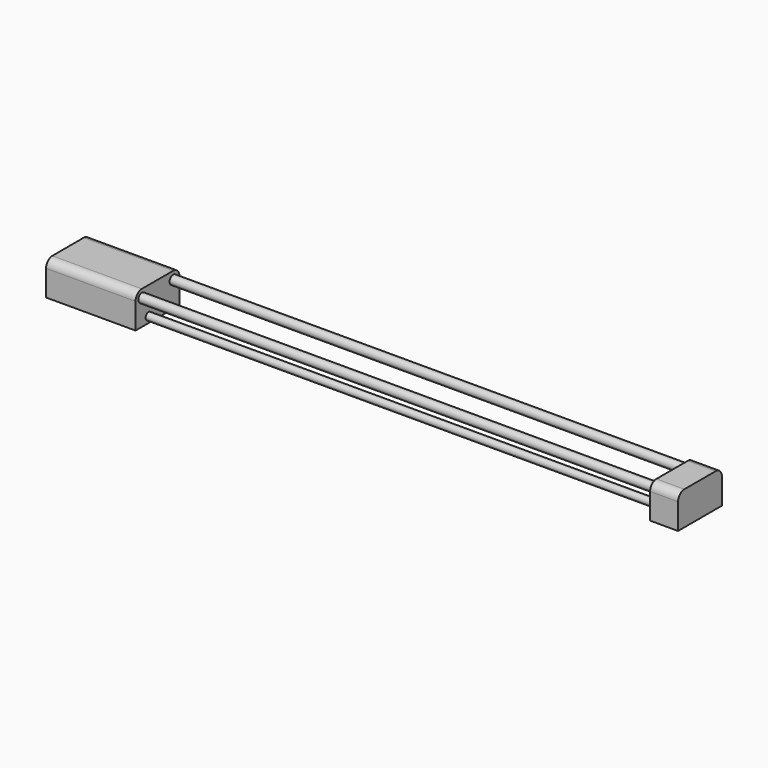
from build123d import *

# Parameters (mm, degrees)
F0_R          = 8
F0_R_2        = 6
F1_DEPTH      = 500
F1_DEPTH_BACK = 500
F0_R_3        = 6.5
F0_R_4        = 5.5
F2_W          = 98
F2_H          = 60
F2_R          = 6.5
F2_R_2        = 8
F3_DEPTH      = 40
F4_W          = 98
F4_H          = 60
F5_DEPTH      = 10
F6_R          = 14
F7_R          = 6.5
F7_R_2        = 8
F8_DEPTH      = 40
F10_DEPTH     = 120


with BuildPart() as f1:
    # F0 (on Right) → F1 (new body, two sides)
    with BuildSketch(Plane.YZ) as f1_sk:
        with Locations((35, 0)):
            Circle(F0_R)
        with Locations((35, 0)):
            Circle(F0_R_2, mode=Mode.SUBTRACT)
    extrude(amount=F1_DEPTH)
    extrude(f1_sk.sketch, amount=-F1_DEPTH_BACK)


with BuildPart() as f1b:
    # F0 (on Right) → F1, piece 2 (new body, two sides)
    with BuildSketch(Plane.YZ) as f1_2_sk:
        with Locations((-35, 0)):
            Circle(F0_R)
        with Locations((-35, 0)):
            Circle(F0_R_2, mode=Mode.SUBTRACT)
    extrude(amount=F1_DEPTH)
    extrude(f1_2_sk.sketch, amount=-F1_DEPTH_BACK)


with BuildPart() as f1c:
    # F0 (on Right) → F1, piece 3 (new body, two sides)
    with BuildSketch(Plane.YZ) as f1_3_sk:
        with Locations((-20, -35)):
            Circle(F0_R_3)
        with Locations((-20, -35)):
            Circle(F0_R_4, mode=Mode.SUBTRACT)
    extrude(amount=F1_DEPTH)
    extrude(f1_3_sk.sketch, amount=-F1_DEPTH_BACK)


with BuildPart() as f1d:
    # F0 (on Right) → F1, piece 4 (new body, two sides)
    with BuildSketch(Plane.YZ) as f1_4_sk:
        with Locations((20, -35)):
            Circle(F0_R_3)
        with Locations((20, -35)):
            Circle(F0_R_4, mode=Mode.SUBTRACT)
    extrude(amount=F1_DEPTH)
    extrude(f1_4_sk.sketch, amount=-F1_DEPTH_BACK)


with BuildPart() as f3:
    # F2 (on face) → F3 (new body)
    with BuildSketch(Plane.YZ.offset(500)):
        with Locations((0, -16)):
            Rectangle(F2_W, F2_H)
        with Locations((-20, -35)):
            Circle(F2_R, mode=Mode.SUBTRACT)
        with Locations((20, -35)):
            Circle(F2_R, mode=Mode.SUBTRACT)
        with Locations((-35, 0)):
            Circle(F2_R_2, mode=Mode.SUBTRACT)
        with Locations((35, 0)):
            Circle(F2_R_2, mode=Mode.SUBTRACT)
    extrude(amount=-F3_DEPTH)

    # F4 (on face) → F5 (join)
    with BuildSketch(Plane.YZ.offset(500)):
        with Locations((0, -16)):
            Rectangle(F4_W, F4_H)
    extrude(amount=F5_DEPTH)

    # F6
    f6_edges = [f3.edges().sort_by_distance(p)[0] for p in [
        (485, -49, 14),
        (485, 49, 14),
    ]]
    fillet(f6_edges, radius=F6_R)


with BuildPart() as f8:
    # F7 (on face) → F8 (new body)
    with BuildSketch(Plane(origin=(-500, 0, 0), x_dir=(0, -1, 0), z_dir=(-1, 0, 0))):
        with BuildLine():
            ThreePointArc((49, 0), (44.8994949366, 9.8994949366), (35, 14))
            Line((35, 14), (-35, 14))
            ThreePointArc((-35, 14), (-44.8994949366, 9.8994949366), (-49, 0))
            Line((-49, 0), (-49, -46))
            Line((-49, -46), (49, -46))
            Line((49, -46), (49, 0))
        make_face()
        with Locations((-20, -35)):
            Circle(F7_R, mode=Mode.SUBTRACT)
        with Locations((20, -35)):
            Circle(F7_R, mode=Mode.SUBTRACT)
        with Locations((-35, 0)):
            Circle(F7_R_2, mode=Mode.SUBTRACT)
        with Locations((35, 0)):
            Circle(F7_R_2, mode=Mode.SUBTRACT)
    extrude(amount=-F8_DEPTH)

    # F9 (on face) → F10 (join)
    with BuildSketch(Plane(origin=(-500, 0, 0), x_dir=(0, -1, 0), z_dir=(-1, 0, 0))):
        with BuildLine():
            Line((-49, -46), (49, -46))
            Line((49, -46), (49, 0))
            ThreePointArc((49, 0), (44.8994949366, 9.8994949366), (35, 14))
            Line((35, 14), (-35, 14))
            ThreePointArc((-35, 14), (-44.8994949366, 9.8994949366), (-49, 0))
            Line((-49, 0), (-49, -46))
        make_face()
    extrude(amount=F10_DEPTH)


solid = Compound([f1.part, f1b.part, f1c.part, f1d.part, f3.part, f8.part])
